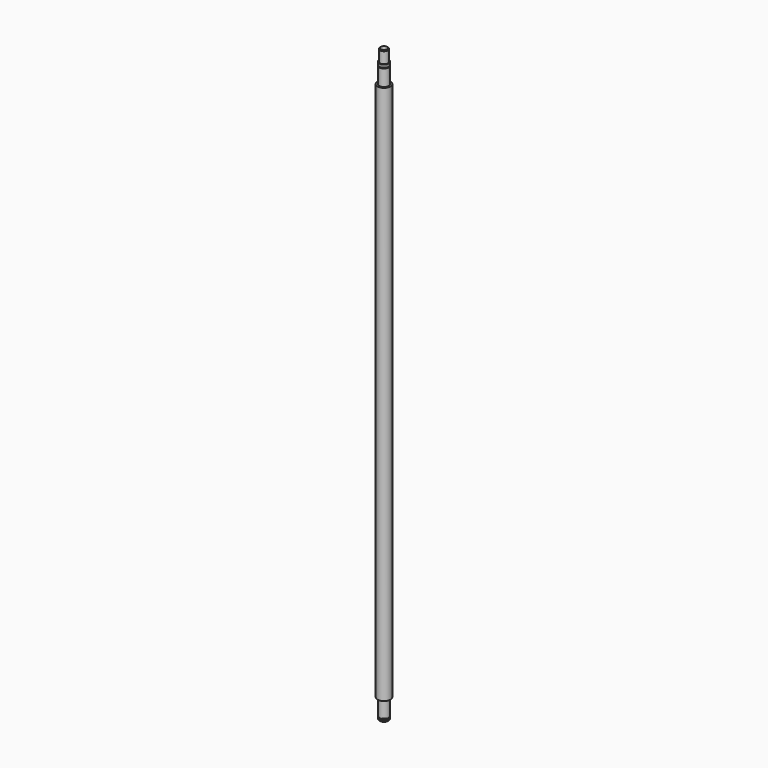
from build123d import *

# Parameters (mm, degrees)
F0_R      = 6
F1_DEPTH  = 3
F2_R      = 4.8
F3_DEPTH  = 1.15
F4_R      = 6
F4_R_2    = 4.8
F5_DEPTH  = 20
F6_R      = 8
F6_R_2    = 6
F7_DEPTH  = 665
F8_R      = 6
F9_DEPTH  = 20
F10_R     = 4.8
F11_DEPTH = 1.15
F12_R     = 6
F12_R_2   = 4.8
F13_DEPTH = 3
F14_R     = 5
F15_DEPTH = 15
F16_SIZE  = 1


with BuildPart() as f1:
    # F0 (on Top) → F1 (new body)
    with BuildSketch(Plane.XY):
        Circle(F0_R)
    extrude(amount=F1_DEPTH)

    # F2 (on face) → F3 (join)
    with BuildSketch(Plane.XY.offset(3)):
        Circle(F2_R)
    extrude(amount=F3_DEPTH)

    # F4 (on face) → F5 (join)
    with BuildSketch(Plane.XY.offset(4.15)):
        Circle(F4_R)
        Circle(F4_R_2, mode=Mode.SUBTRACT)
        Circle(F4_R_2)
    extrude(amount=F5_DEPTH)

    # F6 (on face) → F7 (join)
    with BuildSketch(Plane.XY.offset(24.15)):
        Circle(F6_R)
        Circle(F6_R_2, mode=Mode.SUBTRACT)
        Circle(F6_R_2)
    extrude(amount=F7_DEPTH)

    # F8 (on face) → F9 (join)
    with BuildSketch(Plane.XY.offset(689.15)):
        Circle(F8_R)
    extrude(amount=F9_DEPTH)

    # F10 (on face) → F11 (join)
    with BuildSketch(Plane.XY.offset(709.15)):
        Circle(F10_R)
    extrude(amount=F11_DEPTH)

    # F12 (on face) → F13 (join)
    with BuildSketch(Plane.XY.offset(710.3)):
        Circle(F12_R)
        Circle(F12_R_2, mode=Mode.SUBTRACT)
        Circle(F12_R_2)
    extrude(amount=F13_DEPTH)

    # F14 (on face) → F15 (join)
    with BuildSketch(Plane.XY.offset(713.3)):
        Circle(F14_R)
    extrude(amount=F15_DEPTH)

    # F16
    f16_edges = [f1.edges().sort_by_distance(p)[0] for p in [
        (-5, 0, 728.3),
        (-6, 0, 0),
    ]]
    chamfer(f16_edges, length=F16_SIZE)


solid = f1.part
